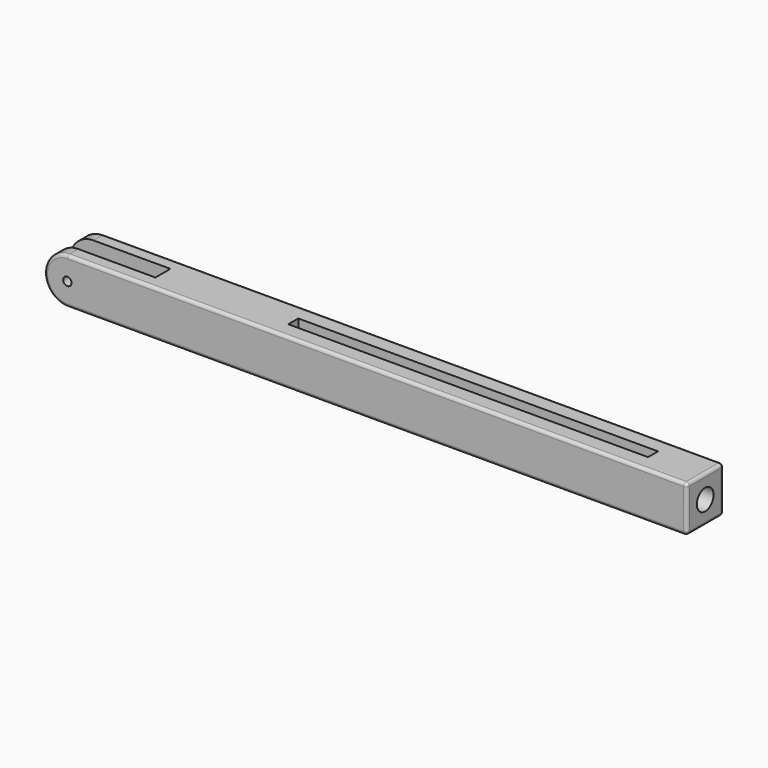
from build123d import *

# Parameters (mm, degrees)
F1_DEPTH  = 44
F4_DEPTH  = 18
F5_R      = 4
F6_DEPTH  = 44.001
F7_DEPTH  = 20
F8_R      = 10
F9_DEPTH  = 20
F10_R     = 3
F11_W     = 345
F11_H     = 12
F12_DEPTH = 12


with BuildPart() as f1:
    # F0 (on Front) → F1 (new body)
    with BuildSketch(Plane.XZ):
        with BuildLine():
            Line((594, 822), (0, 822))
            ThreePointArc((0, 822), (-22, 800), (0, 778))
            Line((0, 778), (594, 778))
            Line((594, 778), (594, 822))
        make_face()
    extrude(amount=F1_DEPTH)

    # F3 (on offset) → F4 (cut)
    with BuildSketch(Plane(origin=(0, -13, 0), x_dir=(-1, 0, 0), z_dir=(0, 1, 0))):
        Polygon((-81.7583871512, 778), (22, 778), (22, 822), (-74, 822), align=None)
    extrude(amount=-F4_DEPTH, mode=Mode.SUBTRACT)

    # F5 (on face) → F6 (cut, through all)
    with BuildSketch(Plane(origin=(0, 0, 0), x_dir=(-1, 0, 0), z_dir=(0, 1, 0))):
        with Locations((0, 800)):
            Circle(F5_R)
    extrude(amount=-F6_DEPTH, mode=Mode.SUBTRACT)

    # F5 (on face) → F7 (cut)
    with BuildSketch(Plane(origin=(0, 0, 0), x_dir=(-1, 0, 0), z_dir=(0, 1, 0))):
        with Locations((-218, 800)):
            Circle(F5_R)
        with Locations((-244, 800)):
            Circle(F5_R)
        with Locations((-481, 800)):
            Circle(F5_R)
    extrude(amount=-F7_DEPTH, mode=Mode.SUBTRACT)

    # F8 (on face) → F9 (cut)
    with BuildSketch(Plane.YZ.offset(594)):
        with Locations((-22, 800)):
            Circle(F8_R)
    extrude(amount=-F9_DEPTH, mode=Mode.SUBTRACT)

    # F10
    f10_edges = [f1.edges().sort_by_distance(p)[0] for p in [
        (297, -44, 822),
        (297, 0, 822),
        (594, 0, 800),
        (594, -22, 822),
        (594, -44, 800),
        (594, -22, 778),
    ]]
    fillet(f10_edges, radius=F10_R)

    # F11 (on face) → F12 (cut)
    with BuildSketch(Plane.XY.offset(822)):
        with Locations((371.5, -22)):
            Rectangle(F11_W, F11_H)
    extrude(amount=-F12_DEPTH, mode=Mode.SUBTRACT)


solid = f1.part
